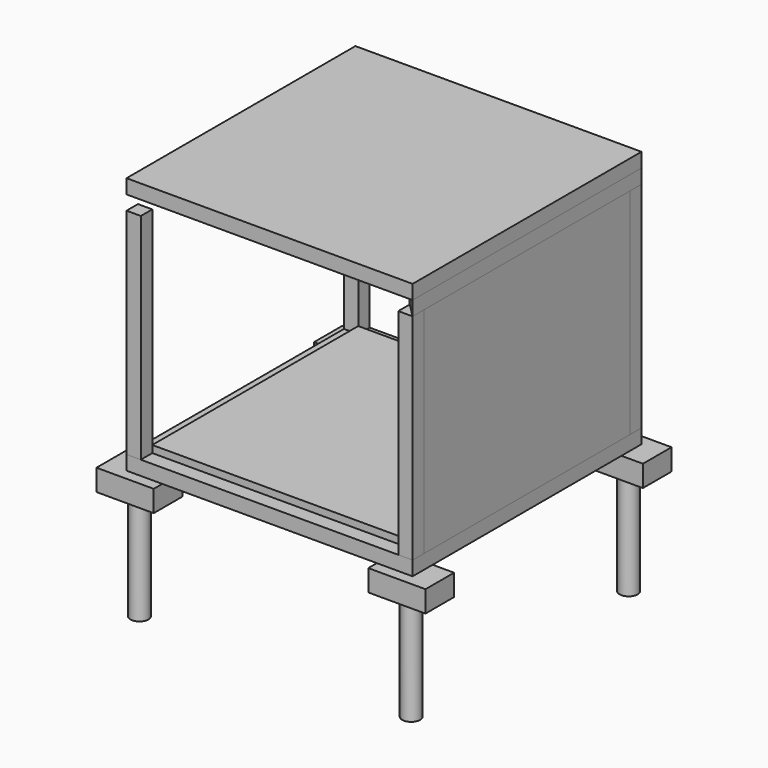
from build123d import *

# Parameters (mm, degrees)
F0_W      = 200
F0_H      = 200
F1_DEPTH  = 3000
F7_W      = 4000
F7_H      = 4000
F7_W_2    = 3600
F7_H_2    = 3600
F8_DEPTH  = 200
F2_W      = 800
F2_H      = 500
F9_DEPTH  = 300
F3_R      = 125
F10_DEPTH = 1500
F11_W     = 3600
F11_H     = 3600
F12_DEPTH = 100
F5_DEPTH  = 200
F13_W     = 200
F13_H     = 3600
F6_DEPTH  = 3000
F14_W     = 4000
F14_H     = 4000
F15_DEPTH = 200


with BuildPart() as f1:
    # F0 (on Top) → F1 (new body)
    with BuildSketch(Plane.XY):
        with Locations((-1900, -1900)):
            Rectangle(F0_W, F0_H)
        with Locations((1900, 1900)):
            Rectangle(F0_W, F0_H)
        with Locations((-1900, 1900)):
            Rectangle(F0_W, F0_H)
        with Locations((1900, -1900)):
            Rectangle(F0_W, F0_H)
    extrude(amount=F1_DEPTH)


with BuildPart() as f8:
    # F7 (on Top) → F8 (new body)
    with BuildSketch(Plane.XY):
        Rectangle(F7_W, F7_H)
        Rectangle(F7_W_2, F7_H_2, mode=Mode.SUBTRACT)
    extrude(amount=-F8_DEPTH)

    # F2 (on face) → F9 (join)
    with BuildSketch(Plane(origin=(0, 0, -200), x_dir=(1, 0, 0), z_dir=(0, 0, -1))):
        with Locations((-1900, -1900)):
            Rectangle(F2_W, F2_H)
        with Locations((-1900, 1900)):
            Rectangle(F2_W, F2_H)
        with Locations((1900, -1900)):
            Rectangle(F2_W, F2_H)
        with Locations((1900, 1900)):
            Rectangle(F2_W, F2_H)
    extrude(amount=F9_DEPTH)

    # F3 (on face) → F10 (join)
    with BuildSketch(Plane(origin=(0, 0, -500), x_dir=(1, 0, 0), z_dir=(0, 0, -1))):
        with Locations((1900, 1900)):
            Circle(F3_R)
        with Locations((-1900, 1900)):
            Circle(F3_R)
        with Locations((-1900, -1900)):
            Circle(F3_R)
        with Locations((1900, -1900)):
            Circle(F3_R)
    extrude(amount=F10_DEPTH)


with BuildPart() as f12:
    # F11 (on Top) → F12 (new body)
    with BuildSketch(Plane.XY):
        Rectangle(F11_W, F11_H)
    extrude(amount=F12_DEPTH)


with BuildPart() as f5:
    # F4 (on face) → F5 (new body)
    with BuildSketch(Plane.XY.offset(3000)):
        Polygon((1800, 1800), (1800, -1800), (2000, -2000), (2000, 2000), align=None)
    extrude(amount=F5_DEPTH)


with BuildPart() as f6:
    # F13 (on face) → F6 (new body)
    with BuildSketch(Plane.XY):
        with Locations((1900, 0)):
            Rectangle(F13_W, F13_H)
    extrude(amount=F6_DEPTH)


with BuildPart() as f15:
    # F14 (on face) → F15 (new body)
    with BuildSketch(Plane.XY.offset(3200)):
        Rectangle(F14_W, F14_H)
    extrude(amount=F15_DEPTH)


solid = Compound([f1.part, f8.part, f12.part, f5.part, f6.part, f15.part])
